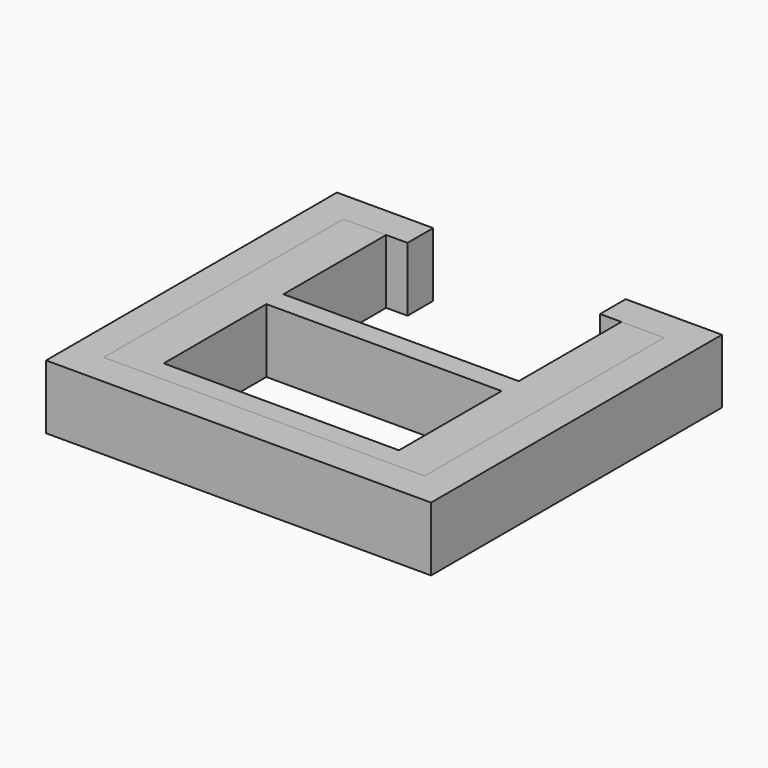
from build123d import *

# Parameters (mm, degrees)
F2_DEPTH = 152.4
F1_W     = 558.8
F1_H     = 304.8
F3_DEPTH = 152.4


with BuildPart() as f2:
    # F0 (on Top) → F2 (new body)
    with BuildSketch(Plane.XY):
        Polygon((228.6, 355.6), (381, 355.6), (381, -355.6), (-381, -355.6), (-381, 355.6), (-228.6, 355.6), (-228.6, 431.8), (-457.2, 431.8), (-457.2, -431.8), (457.2, -431.8), (457.2, 431.8), (228.6, 431.8), align=None)
    extrude(amount=F2_DEPTH)


with BuildPart() as f3:
    # F1 (on Top) → F3 (new body)
    with BuildSketch(Plane.XY):
        Polygon((-279.4, 355.6), (-381, 355.6), (-381, -355.6), (-279.4, -355.6), (279.4, -355.6), (381, -355.6), (381, 355.6), (279.4, 355.6), (279.4, 50.8), (-279.4, 50.8), align=None)
        with Locations((0, -152.4)):
            Rectangle(F1_W, F1_H, mode=Mode.SUBTRACT)
    extrude(amount=F3_DEPTH)


solid = Compound([f2.part, f3.part])
